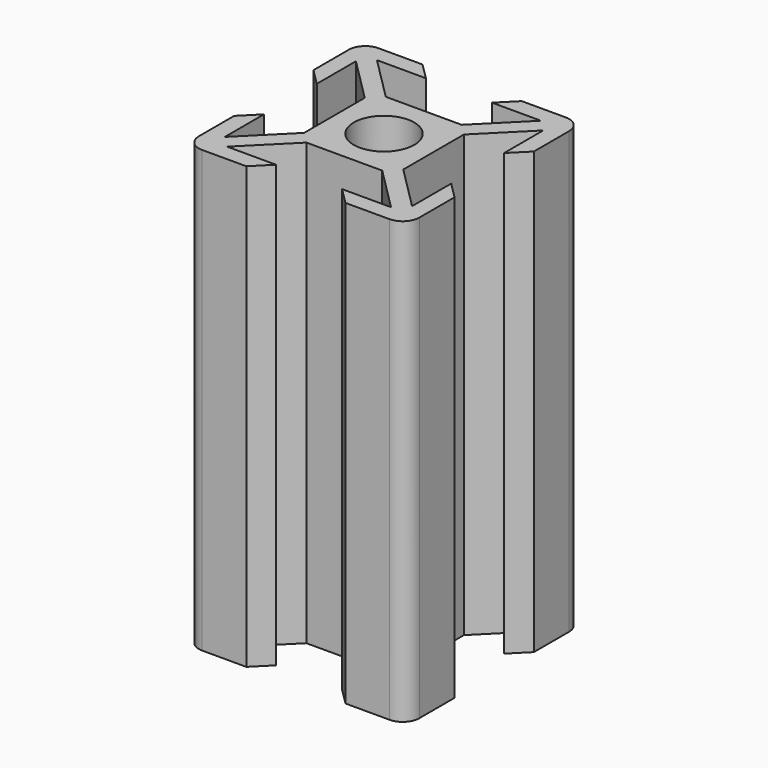
from build123d import *

# Parameters (mm, degrees)
SKETCH_R  = 2.75
PAD_DEPTH = 40


with BuildPart() as part:
    # Sketch → Pad (new body)
    with BuildSketch(Plane.XY):
        with BuildLine():
            ThreePointArc((-8.5, 10), (-9.56066, 9.56066), (-10, 8.5))
            Line((-10, 8.5), (-10, 4.5))
            Line((-10, 4.5), (-8.5, 3))
            Line((-8.5, 3), (-8.5, 7.43934))
            Line((-8.5, 7.43934), (-4.5, 3.43934))
            Line((-4.5, 3.43934), (-4.5, -3.43934))
            Line((-4.5, -3.43934), (-8.5, -7.43934))
            Line((-8.5, -7.43934), (-8.5, -3))
            Line((-8.5, -3), (-10, -4.5))
            Line((-10, -4.5), (-10, -8.5))
            ThreePointArc((-10, -8.5), (-9.56066, -9.56066), (-8.5, -10))
            Line((-8.5, -10), (-4.5, -10))
            Line((-4.5, -10), (-3, -8.5))
            Line((-3, -8.5), (-7.43934, -8.5))
            Line((-7.43934, -8.5), (-3.43934, -4.5))
            Line((-3.43934, -4.5), (3.43934, -4.5))
            Line((3.43934, -4.5), (7.43934, -8.5))
            Line((7.43934, -8.5), (3, -8.5))
            Line((3, -8.5), (4.5, -10))
            Line((4.5, -10), (8.5, -10))
            ThreePointArc((8.5, -10), (9.56066, -9.56066), (10, -8.5))
            Line((10, -8.5), (10, -4.5))
            Line((10, -4.5), (8.5, -3))
            Line((8.5, -3), (8.5, -7.43934))
            Line((8.5, -7.43934), (4.5, -3.43934))
            Line((4.5, -3.43934), (4.5, 3.43934))
            Line((4.5, 3.43934), (8.5, 7.43934))
            Line((8.5, 7.43934), (8.5, 3))
            Line((8.5, 3), (10, 4.5))
            Line((10, 4.5), (10, 8.5))
            ThreePointArc((10, 8.5), (9.56066, 9.56066), (8.5, 10))
            Line((8.5, 10), (4.5, 10))
            Line((4.5, 10), (3, 8.5))
            Line((3, 8.5), (7.43934, 8.5))
            Line((7.43934, 8.5), (3.43934, 4.5))
            Line((-3.43934, 4.5), (3.43934, 4.5))
            Line((-7.43934, 8.5), (-3.43934, 4.5))
            Line((-3, 8.5), (-7.43934, 8.5))
            Line((-4.5, 10), (-3, 8.5))
            Line((-8.5, 10), (-4.5, 10))
        make_face()
        Circle(SKETCH_R, mode=Mode.SUBTRACT)
    extrude(amount=PAD_DEPTH)


solid = part.part
